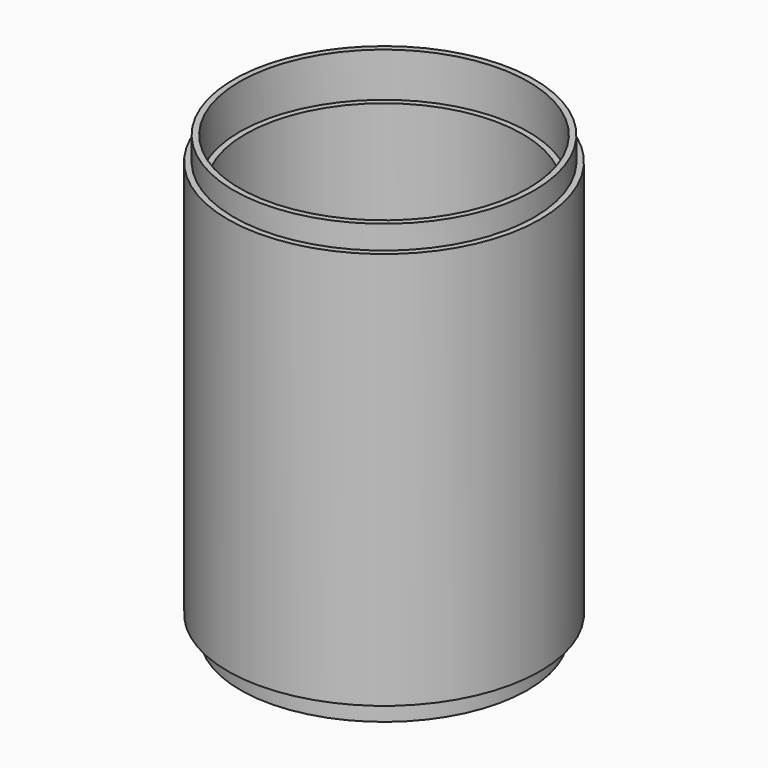
from build123d import *


with BuildPart() as part:
    # Sketch → Revolution (revolve)
    with BuildSketch(Plane.XZ):
        Polygon((53, 7), (51.25, 7), (51.25, 15), (48.75, 15), (48.75, 0), (47, 0), (47, 135), (49, 135), (49, 150), (51, 150), (51, 142), (53, 142), align=None)
    revolve(axis=Axis((0, 0, 0), (0, 0, 1)))


solid = part.part
